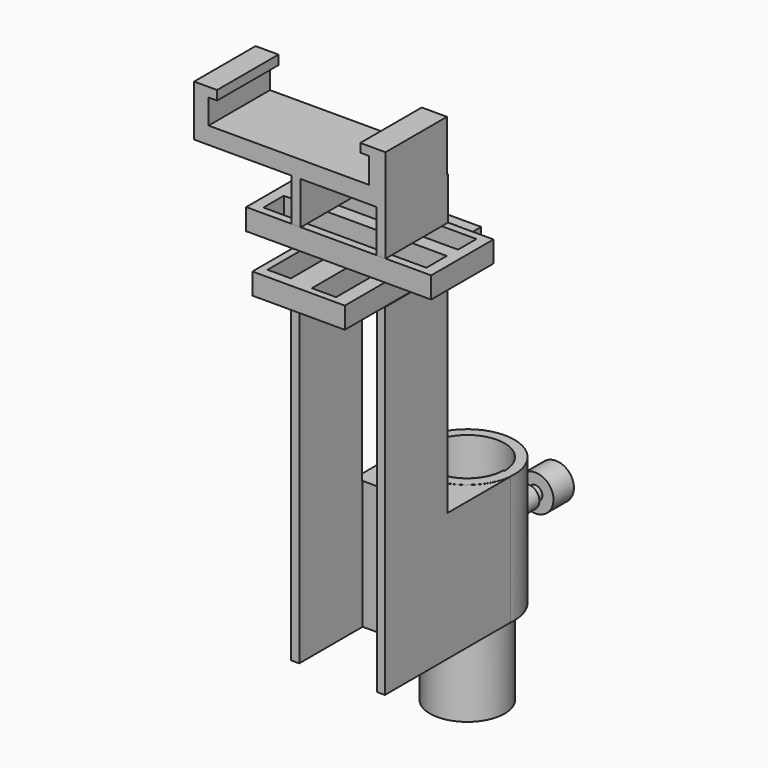
from build123d import *

# Parameters (mm, degrees)
F0_R           = 11.4851473357
F1_DEPTH       = 25.4
F2_R           = 14.0381408387
F3_DEPTH       = 38.354
F4_R           = 11.1184182472
F5_DEPTH       = 40.64
F6_R           = 11.1443418508
F7_DEPTH       = 25.4
F8_R           = 10.6779324927
F9_DEPTH       = 25.4
F10_W          = 48.1841601431
F10_H          = 38.3043847978
F11_DEPTH      = 13.97
F11_DEPTH_BACK = 13.97
F12_W          = 27.94
F12_H          = 23.4013380416
F13_DEPTH      = 63.5
F14_W          = 27.5632794946
F14_H          = 12.7333622493
F14_H_2        = 23.4013380416
F14_H_3        = 14.7006912157
F15_DEPTH      = 6.35
F16_W          = 7.2420062497
F16_H          = 45.677350834
F16_W_2        = 6.9660460576
F16_H_2        = 44.3694461137
F17_DEPTH      = 6.35
F18_W          = 55.1662780344
F18_H          = 23.233897984
F19_DEPTH      = 6.35
F20_W          = 48.7214699388
F20_H          = 6.8689957261
F20_W_2        = 48.6058108509
F20_H_2        = 7.6186433434
F21_DEPTH      = 6.35
F22_W          = 23.1224743262
F22_H          = 101.739127886
F23_DEPTH      = 23.622
F24_W          = 28.0196964741
F24_H          = 23.2863202691
F25_DEPTH      = 12.7
F26_W          = 22.5610751659
F26_H          = 2.6592202485
F26_H_2        = 23.2863202691
F27_DEPTH      = 12.7
F28_W          = 54.3520981446
F28_H          = 22.9060128331
F28_W_2        = 2.7293106541
F29_DEPTH      = 5.08
F30_W          = 4.3049231172
F30_H          = 22.9060128331
F30_W_2        = 4.9764737487
F31_DEPTH      = 10.16
F32_W          = 22.9060128331
F32_H          = 2.5616861427
F33_DEPTH      = 2.54
F34_W          = 22.9060128331
F34_H          = 2.7740425909
F35_DEPTH      = 2.54
F36_R          = 10.668
F37_DEPTH      = 40.64
F38_R          = 3.2231915419
F39_DEPTH      = 22.86
F40_R          = 2.0835322845
F41_DEPTH      = 2.54
F42_R          = 5.3868280623
F43_DEPTH      = 7.62


with BuildPart() as f1:
    # F0 (on Top) → F1 (new body)
    with BuildSketch(Plane.XY):
        Circle(F0_R)
    extrude(amount=F1_DEPTH)


with BuildPart() as f3:
    # F2 (on Top) → F3 (new body)
    with BuildSketch(Plane.XY):
        Circle(F2_R)
    extrude(amount=F3_DEPTH)


with BuildPart() as f5_tool:
    # F4 (on Top) → F5 (new body)
    with BuildSketch(Plane.XY):
        Circle(F4_R)
    extrude(amount=F5_DEPTH)


with BuildPart() as f1_1:
    add(f1.part)

    # F5: cut by f5_tool
    add(f5_tool.part, mode=Mode.SUBTRACT)



with BuildPart() as f3_1:
    add(f3.part)

    # F5: cut by f5_tool
    add(f5_tool.part, mode=Mode.SUBTRACT)


with BuildPart() as f7:
    # F6 (on Top) → F7 (new body)
    with BuildSketch(Plane.XY):
        Circle(F6_R)
    extrude(amount=-F7_DEPTH)

    # F8 (on face) → F9 (cut)
    with BuildSketch(Plane(origin=(0, 0, -25.4), x_dir=(1, 0, 0), z_dir=(0, 0, -1))):
        Circle(F8_R)
    extrude(amount=-F9_DEPTH, mode=Mode.SUBTRACT)


with BuildPart() as f1_2:
    add(f1_1.part)

    add(f3_1.part)  # F11 merges F3

    add(f7.part)  # F11 merges F7
    # F10 (on Right) → F11 (join, two sides)
    with BuildSketch(Plane.YZ) as f11_sk:
        with Locations((-24.0920800716, 19.1521923989)):
            Rectangle(F10_W, F10_H)
    extrude(amount=F11_DEPTH)
    extrude(f11_sk.sketch, amount=-F11_DEPTH_BACK)

    # F12 (on face) → F13 (join)
    with BuildSketch(Plane.XY.offset(38.3043847978)):
        with Locations((0, -36.4834911223)):
            Rectangle(F12_W, F12_H)
    extrude(amount=F13_DEPTH)

    # F14 (on face) → F15 (join)
    with BuildSketch(Plane.XY.offset(101.8043847978)):
        with Locations((0, -18.4161409769)):
            Rectangle(F14_W, F14_H)
        with Locations((0, -36.4834911223)):
            Rectangle(F14_W, F14_H_2)
        with Locations((0, -55.534505751)):
            Rectangle(F14_W, F14_H_3)
    extrude(amount=F15_DEPTH)

    # F16 (on face) → F17 (cut)
    with BuildSketch(Plane.XY.offset(108.1543847978)):
        with Locations((5.9133009054, -37.9796130583)):
            Rectangle(F16_W, F16_H)
        with Locations((-8.0874641426, -37.8289176151)):
            Rectangle(F16_W_2, F16_H_2)
    extrude(amount=-F17_DEPTH, mode=Mode.SUBTRACT)

    # F18 (on face) → F19 (join)
    with BuildSketch(Plane.XY.offset(108.1543847978)):
        with Locations((0, -36.3346077502)):
            Rectangle(F18_W, F18_H)
    extrude(amount=F19_DEPTH)

    # F20 (on face) → F21 (cut)
    with BuildSketch(Plane.XY.offset(114.5043847978)):
        with Locations((0, -30.4647795856)):
            Rectangle(F20_W, F20_H)
        with Locations((0, -41.8227724731)):
            Rectangle(F20_W_2, F20_H_2)
    extrude(amount=-F21_DEPTH, mode=Mode.SUBTRACT)

    # F22 (on face) → F23 (cut)
    with BuildSketch(Plane.XZ.offset(48.1841601431)):
        with Locations((0, 50.869563943)):
            Rectangle(F22_W, F22_H)
    extrude(amount=-F23_DEPTH, mode=Mode.SUBTRACT)

    # F24 (on face) → F25 (join)
    with BuildSketch(Plane.XY.offset(114.5043847978)):
        with Locations((0, -36.3608188927)):
            Rectangle(F24_W, F24_H)
    extrude(amount=F25_DEPTH)

    # F26 (on face) → F27 (cut)
    with BuildSketch(Plane.XY.offset(127.2043847978)):
        with Locations((0, -49.3335891515)):
            Rectangle(F26_W, F26_H)
        with Locations((0, -36.3608188927)):
            Rectangle(F26_W, F26_H_2)
    extrude(amount=-F27_DEPTH, mode=Mode.SUBTRACT)

    # F28 (on face) → F29 (join)
    with BuildSketch(Plane.XY.offset(127.2043847978)):
        with Locations((-15.8955114894, -36.5509726107)):
            Rectangle(F28_W, F28_H)
        with Locations((12.64519291, -36.5509726107)):
            Rectangle(F28_W_2, F28_H)
    extrude(amount=F29_DEPTH)

    # F30 (on face) → F31 (join)
    with BuildSketch(Plane.XY.offset(132.2843847978)):
        with Locations((-40.9190990031, -36.5509726107)):
            Rectangle(F30_W, F30_H)
        with Locations((11.5216113627, -36.5509726107)):
            Rectangle(F30_W_2, F30_H)
    extrude(amount=F31_DEPTH)

    # F32 (on face) → F33 (join)
    with BuildSketch(Plane(origin=(9.0333744884, 0, 0), x_dir=(0, -1, 0), z_dir=(-1, 0, 0))):
        with Locations((36.5509726107, 141.1635417265)):
            Rectangle(F32_W, F32_H)
    extrude(amount=F33_DEPTH)

    # F34 (on face) → F35 (join)
    with BuildSketch(Plane.YZ.offset(-38.7666374445)):
        with Locations((-36.5509726107, 141.0573635024)):
            Rectangle(F34_W, F34_H)
    extrude(amount=F35_DEPTH)

    # F36 (on Top) → F37 (cut)
    with BuildSketch(Plane.XY):
        Circle(F36_R)
    extrude(amount=F37_DEPTH, mode=Mode.SUBTRACT)

    # F38 (on Front) → F39 (join)
    with BuildSketch(Plane.XZ):
        with Locations((0, 18.5866560787)):
            Circle(F38_R)
    extrude(amount=-F39_DEPTH)

    # F40 (on face) → F41 (join)
    with BuildSketch(Plane(origin=(0, 22.86, 0), x_dir=(-1, 0, 0), z_dir=(0, 1, 0))):
        with Locations((0, 18.5866560787)):
            Circle(F40_R)
    extrude(amount=F41_DEPTH)

    # F42 (on face) → F43 (join)
    with BuildSketch(Plane(origin=(0, 25.4, 0), x_dir=(-1, 0, 0), z_dir=(0, 1, 0))):
        with Locations((0, 18.5866560787)):
            Circle(F42_R)
    extrude(amount=F43_DEPTH)


solid = f1_2.part
